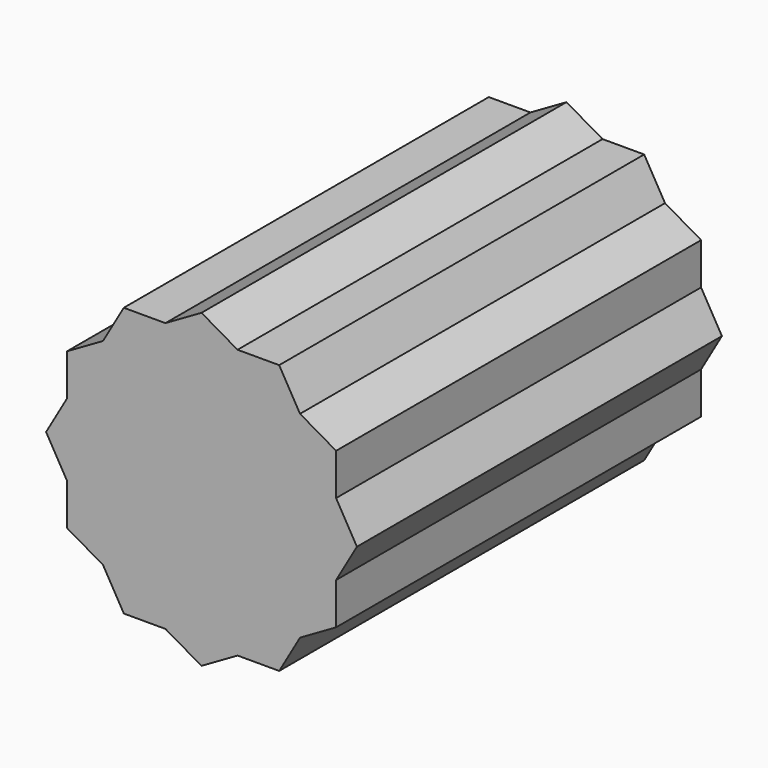
from build123d import *

# Parameters (mm, degrees)
F1_DEPTH = 100
F2_T     = -2.5


with BuildPart() as f1:
    # F0 (on Front) → F1 (new body)
    with BuildSketch(Plane.XZ):
        Polygon((21.5941209233, 21.5962943542), (17.0288638531, 29.5017140046), (7.9031232396, 29.5007955524), align=None)
        Polygon((29.5, 17.0318329411), (21.5941209233, 21.5962943542), (29.5, 7.9060922814), align=None)
        Polygon((29.5, 7.9060922814), (21.5941209233, 21.5962943542), (7.9031232396, 29.5007955524), (-7.9058790767, 29.4992044691), (-21.5968767604, 21.5947032709), (-29.5, 7.9029101149), (-29.5, -7.9060922814), (-21.5941209233, -21.5962943542), (-7.9031232396, -29.5007955524), (7.9058790767, -29.4992044691), (21.5968767604, -21.5947032709), (29.5, -7.9029101149), align=None)
        Polygon((-7.9058790767, 29.4992044691), (7.9031232396, 29.5007955524), (0, 34.0636658822), align=None)
        Polygon((34.0636657097, 0.0034283079), (29.5, 7.9060922814), (29.5, -7.9029101149), align=None)
        Polygon((-21.5968767604, 21.5947032709), (-7.9058790767, 29.4992044691), (-17.0348018566, 29.4982856966), align=None)
        Polygon((29.5, -17.0318329411), (29.5, -7.9029101149), (21.5968767604, -21.5947032709), align=None)
        Polygon((-29.5, 7.9029101149), (-21.5968767604, 21.5947032709), (-29.5, 17.0318329411), align=None)
        Polygon((17.0348018566, -29.4982856966), (21.5968767604, -21.5947032709), (7.9058790767, -29.4992044691), align=None)
        Polygon((-29.5, -7.9060922814), (-29.5, 7.9029101149), (-34.0636657097, -0.0034283079), align=None)
        Polygon((0, -34.0636658822), (7.9058790767, -29.4992044691), (-7.9031232396, -29.5007955524), align=None)
        Polygon((-21.5941209233, -21.5962943542), (-29.5, -7.9060922814), (-29.5, -17.0318329411), align=None)
        Polygon((-17.0288638531, -29.5017140046), (-7.9031232396, -29.5007955524), (-21.5941209233, -21.5962943542), align=None)
    extrude(amount=F1_DEPTH)

    # F2
    f2_openings = [f1.faces().sort_by_distance(p)[0] for p in [
        (0, 0, 0),
    ]]
    offset(amount=F2_T, openings=f2_openings, kind=Kind.INTERSECTION)


solid = f1.part
